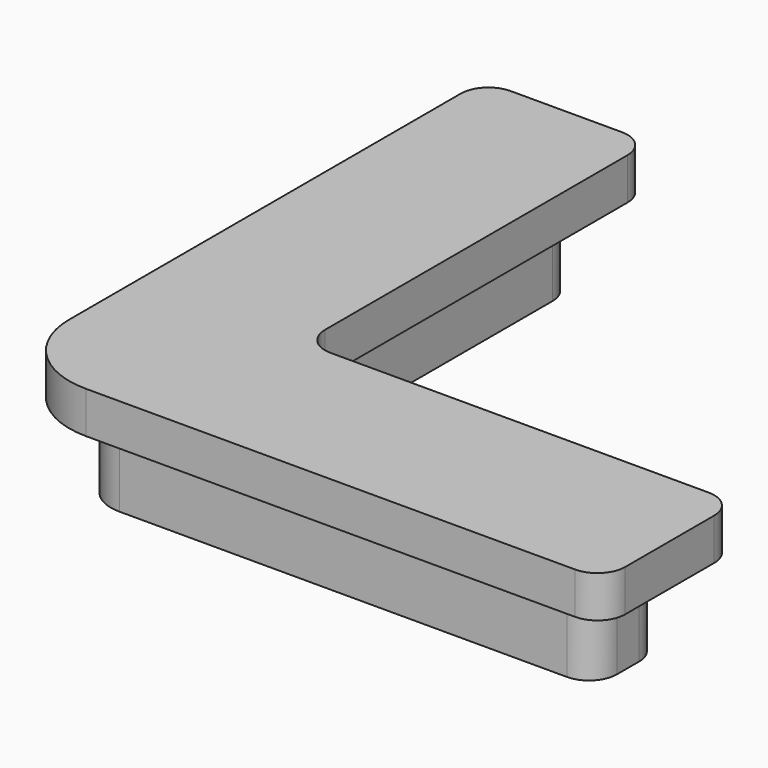
from build123d import *

# Parameters (mm, degrees)
F1_DEPTH = 6
F3_DEPTH = 3
F4_R     = 2
F5_R     = 2


with BuildPart() as f1:
    # F0 (on Top) → F1 (new body)
    with BuildSketch(Plane.XY):
        with BuildLine():
            Line((-3, 34.2), (-3, 0))
            ThreePointArc((-3, 0), (-2.1213203436, -2.1213203436), (0, -3))
            Line((0, -3), (34.2, -3))
            Line((34.2, -3), (34.2, 3))
            Line((34.2, 3), (5, 3))
            ThreePointArc((5, 3), (3.5857864376, 3.5857864376), (3, 5))
            Line((3, 5), (3, 34.2))
            Line((3, 34.2), (-3, 34.2))
        make_face()
        with BuildLine():
            Line((1, 32.2), (1, 2))
            ThreePointArc((1, 2), (1.2928932188, 1.2928932188), (2, 1))
            Line((2, 1), (32.2, 1))
            Line((32.2, 1), (32.2, -1))
            Line((32.2, -1), (0, -1))
            ThreePointArc((0, -1), (-0.7071067812, -0.7071067812), (-1, 0))
            Line((-1, 0), (-1, 32.2))
            Line((-1, 32.2), (1, 32.2))
        make_face(mode=Mode.SUBTRACT)
    extrude(amount=F1_DEPTH)

    # F2 (on face) → F3 (join)
    with BuildSketch(Plane.XY.offset(6)):
        with BuildLine():
            Line((-6, 37.2), (-6, 0))
            ThreePointArc((-6, 0), (-4.2426406871, -4.2426406871), (0, -6))
            Line((0, -6), (37.2, -6))
            Line((37.2, -6), (37.2, 6))
            Line((37.2, 6), (6, 6))
            Line((6, 6), (6, 37.2))
            Line((6, 37.2), (-6, 37.2))
        make_face()
        with BuildLine():
            Line((-3, 0), (-3, 34.2))
            Line((-3, 34.2), (3, 34.2))
            Line((3, 34.2), (3, 5))
            ThreePointArc((3, 5), (3.5857864376, 3.5857864376), (5, 3))
            Line((5, 3), (34.2, 3))
            Line((34.2, 3), (34.2, -3))
            Line((34.2, -3), (0, -3))
            ThreePointArc((0, -3), (-2.1213203436, -2.1213203436), (-3, 0))
        make_face(mode=Mode.SUBTRACT)
        with BuildLine():
            Line((3, 34.2), (-3, 34.2))
            Line((-3, 34.2), (-3, 0))
            ThreePointArc((-3, 0), (-2.1213203436, -2.1213203436), (0, -3))
            Line((0, -3), (34.2, -3))
            Line((34.2, -3), (34.2, 3))
            Line((34.2, 3), (5, 3))
            ThreePointArc((5, 3), (3.5857864376, 3.5857864376), (3, 5))
            Line((3, 5), (3, 34.2))
        make_face()
        with BuildLine():
            ThreePointArc((0, -1), (-0.7071067812, -0.7071067812), (-1, 0))
            Line((-1, 0), (-1, 32.2))
            Line((-1, 32.2), (1, 32.2))
            Line((1, 32.2), (1, 2))
            ThreePointArc((1, 2), (1.2928932188, 1.2928932188), (2, 1))
            Line((2, 1), (32.2, 1))
            Line((32.2, 1), (32.2, -1))
            Line((32.2, -1), (0, -1))
        make_face(mode=Mode.SUBTRACT)
        with BuildLine():
            Line((-1, 32.2), (-1, 0))
            ThreePointArc((-1, 0), (-0.7071067812, -0.7071067812), (0, -1))
            Line((0, -1), (32.2, -1))
            Line((32.2, -1), (32.2, 1))
            Line((32.2, 1), (2, 1))
            ThreePointArc((2, 1), (1.2928932188, 1.2928932188), (1, 2))
            Line((1, 2), (1, 32.2))
            Line((1, 32.2), (-1, 32.2))
        make_face()
    extrude(amount=F3_DEPTH)

    # F4
    f4_edges = [f1.edges().sort_by_distance(p)[0] for p in [
        (6, 37.2, 7.5),
        (6, 6, 7.5),
        (37.2, 6, 7.5),
        (37.2, -6, 7.5),
        (-6, 37.2, 7.5),
    ]]
    fillet(f4_edges, radius=F4_R)

    # F5
    f5_edges = [f1.edges().sort_by_distance(p)[0] for p in [
        (-3, 34.2, 3),
        (3, 34.2, 3),
        (34.2, 3, 3),
        (34.2, -3, 3),
    ]]
    fillet(f5_edges, radius=F5_R)


solid = f1.part
